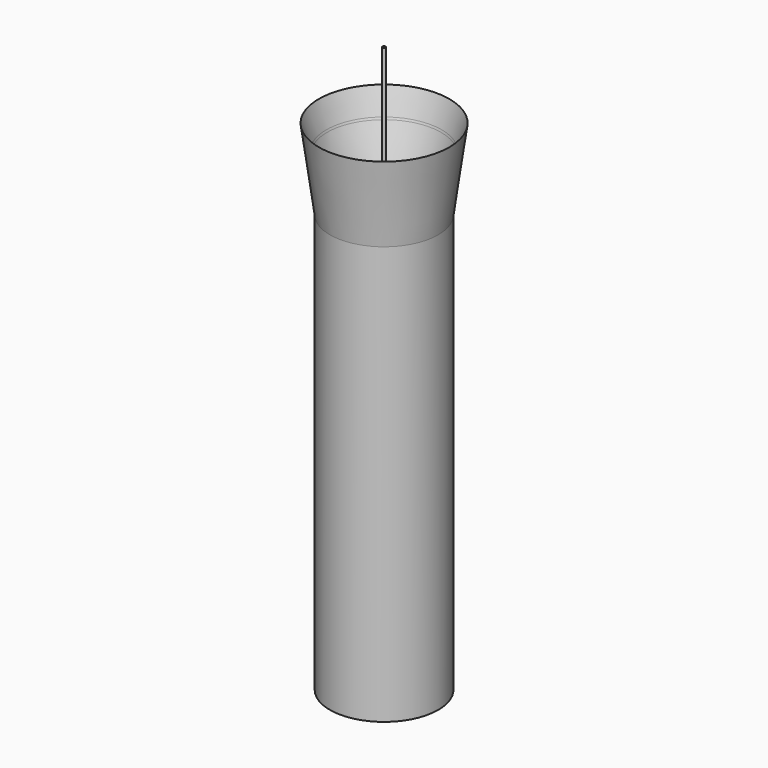
from build123d import *

# Parameters (mm, degrees)
F0_W     = 8.9162653312
F0_H     = 68.7855742872
F5_R     = 0.2551301714
F3_R     = 0.2579924581
F7_SCALE = 0.2717


with BuildPart() as f1:
    # F0 (on Front) → F1 (revolve)
    with BuildSketch(Plane.XZ):
        Polygon((0, 42.8588315845), (0, 40.7245121896), (8.9162653312, 40.7245121896), (10.7394016028, 54.0099740028), (9.4826271558, 49.960937351), (9.3766475536, 49.6194955792), (7.2782151401, 42.8588315845), (2.2957634175, 42.8588315845), align=None)
        with Locations((4.4581326656, 6.331725046)):
            Rectangle(F0_W, F0_H)
    revolve(axis=Axis((0, 0, 41.791671887), (0, 0, -1)))

    # F5 (on offset) → F6 section 0
    with BuildSketch(Plane.XY.offset(42.8498)):
        Circle(F5_R)
    # F3 (on offset) → F6 section 1
    with BuildSketch(Plane.XY.offset(65.024)):
        Circle(F3_R)
    loft()


with BuildPart() as f1_1:
    # F7: moved
    add(f1.part.scale(F7_SCALE))


solid = f1_1.part
